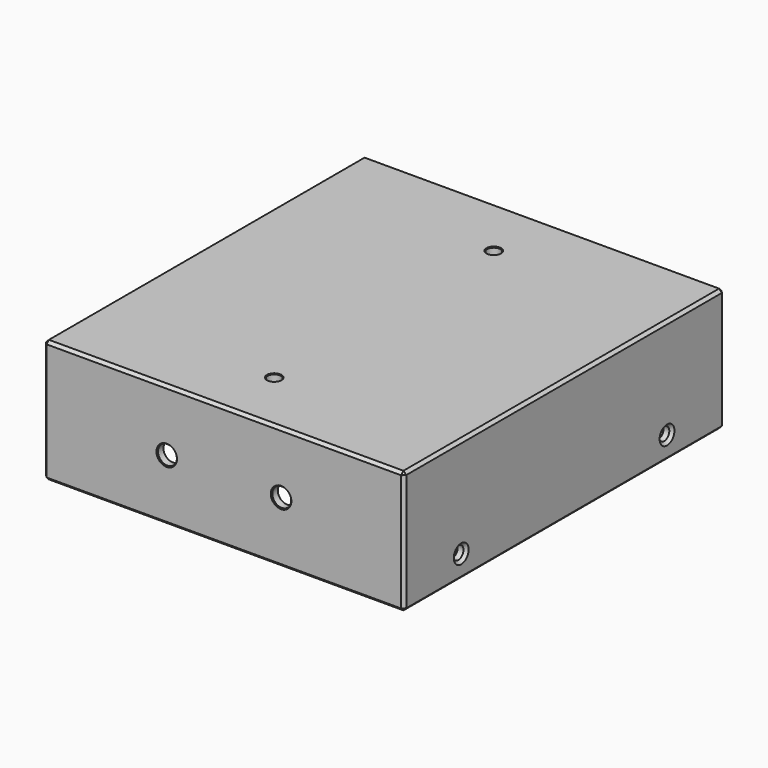
from build123d import *

# Parameters (mm, degrees)
SKETCH036_W     = 126
SKETCH036_H     = 140
PAD017_DEPTH    = 43
THICKNESS_T     = -3
CHAMFER017_SIZE = 2
SKETCH037_R     = 2.25
POCKET018_DEPTH = 126.001
CHAMFER018_SIZE = 1
SKETCH038_R     = 3.3
POCKET019_DEPTH = 5
CHAMFER019_SIZE = 0.3
SKETCH039_R     = 2.3
POCKET020_DEPTH = 3.001
CHAMFER020_SIZE = 0.25


with BuildPart() as part:
    # Sketch036 → Pad017 (new body)
    with BuildSketch(Plane.XY):
        Rectangle(SKETCH036_W, SKETCH036_H)
    extrude(amount=PAD017_DEPTH)

    # Thickness
    thickness_openings = [part.faces().sort_by_distance(p)[0] for p in [
        (0, 0, 0),
    ]]
    offset(amount=THICKNESS_T, openings=thickness_openings, kind=Kind.INTERSECTION)

    # Chamfer017
    chamfer017_edges = [part.edges().sort_by_distance(p)[0] for p in [
        (-60, -67, 20),
        (-60, 0, 40),
        (0, -67, 40),
        (-60, 67, 20),
        (0, 67, 40),
        (60, 67, 20),
        (60, 0, 40),
        (60, -67, 20),
    ]]
    chamfer(chamfer017_edges, length=CHAMFER017_SIZE)

    # Sketch037 (on Face13 of Chamfer017) → Pocket018 (cut, through all)
    with BuildSketch(Plane(origin=(-63, 0, 0), x_dir=(0, -1, 0), z_dir=(-1, 0, 0))):
        with Locations((-45, 8)):
            Circle(SKETCH037_R)
        with Locations((45, 8)):
            Circle(SKETCH037_R)
    extrude(amount=-POCKET018_DEPTH, mode=Mode.SUBTRACT)

    # Chamfer018
    chamfer018_edges = [part.edges().sort_by_distance(p)[0] for p in [
        (-63, -70, 21.5),
        (-63, 0, 0),
        (-63, 0, 43),
        (-63, 70, 21.5),
        (-63, -42.75, 8),
        (-63, 47.25, 8),
        (63, -70, 21.5),
        (0, -70, 0),
        (0, -70, 43),
        (63, 70, 21.5),
        (63, 0, 0),
        (63, 0, 43),
        (63, -42.75, 8),
        (63, 47.25, 8),
        (0, 70, 0),
        (0, 70, 43),
    ]]
    chamfer(chamfer018_edges, length=CHAMFER018_SIZE)

    # Sketch038 (on Face18 of Chamfer018) → Pocket019 (cut)
    with BuildSketch(Plane.XZ.offset(70)):
        with Locations((-20, 21.5)):
            Circle(SKETCH038_R)
        with Locations((20, 21.5)):
            Circle(SKETCH038_R)
    extrude(amount=-POCKET019_DEPTH, mode=Mode.SUBTRACT)

    # Chamfer019
    chamfer019_edges = [part.edges().sort_by_distance(p)[0] for p in [
        (-23.3, -70, 21.5),
        (-16.7, -68.5, 21.5),
        (-23.3, -67, 21.5),
        (16.7, -70, 21.5),
        (23.3, -68.5, 21.5),
        (16.7, -67, 21.5),
    ]]
    chamfer(chamfer019_edges, length=CHAMFER019_SIZE)

    # Sketch039 (on Face20 of Chamfer019) → Pocket020 (cut, through all)
    with BuildSketch(Plane(origin=(0, 0, 40), x_dir=(1, 0, 0), z_dir=(0, 0, -1))):
        with Locations((0, 48)):
            Circle(SKETCH039_R)
        with Locations((0, -48)):
            Circle(SKETCH039_R)
    extrude(amount=-POCKET020_DEPTH, mode=Mode.SUBTRACT)

    # Chamfer020
    chamfer020_edges = [part.edges().sort_by_distance(p)[0] for p in [
        (-2.3, -48, 40),
        (2.3, -48, 41.5),
        (-2.3, -48, 43),
        (-2.3, 48, 40),
        (2.3, 48, 41.5),
        (-2.3, 48, 43),
    ]]
    chamfer(chamfer020_edges, length=CHAMFER020_SIZE)


solid = part.part
